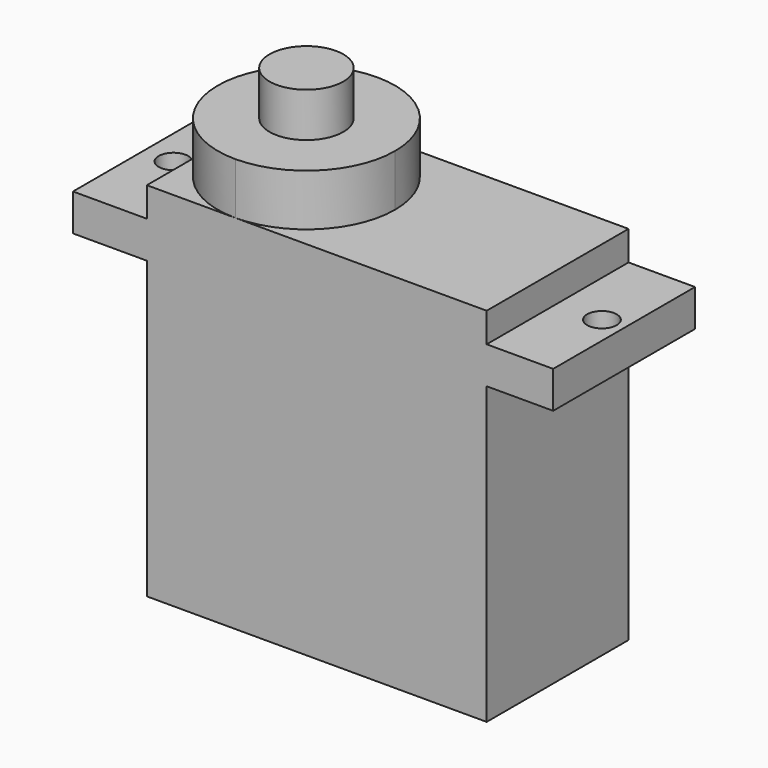
from build123d import *

# Parameters (mm, degrees)
F0_W     = 4.5
F0_H     = 12
F0_R     = 1
F0_R_2   = 2.5
F1_DEPTH = 2.5
F2_DEPTH = 2
F3_DEPTH = 22.5
F4_R     = 2.5
F5_DEPTH = 3.5
F6_DEPTH = 6.5
F8_W     = 23
F8_H     = 12
F9_DEPTH = 20


with BuildPart() as f1:
    # F0 (on Top) → F1 (new body)
    with BuildSketch(Plane.XY):
        with Locations((30.25, 6)):
            Rectangle(F0_W, F0_H)
        with Locations((31, 6)):
            Circle(F0_R, mode=Mode.SUBTRACT)
        with BuildLine():
            ThreePointArc((17, 6), (15.2426406871, 1.7573593129), (11, 0))
            Line((11, 0), (28, 0))
            Line((28, 0), (28, 12))
            Line((28, 12), (11, 12))
            ThreePointArc((11, 12), (15.2426406871, 10.2426406871), (17, 6))
        make_face()
        with BuildLine():
            Line((5, 12), (5, 6))
            ThreePointArc((5, 6), (6.7573593129, 10.2426406871), (11, 12))
            Line((11, 12), (5, 12))
        make_face()
        with BuildLine():
            Line((5, 6), (5, 0))
            Line((5, 0), (11, 0))
            ThreePointArc((11, 0), (6.7573593129, 1.7573593129), (5, 6))
        make_face()
        Polygon((0, 12), (0, 0), (5, 0), (5, 6), (5, 12), align=None)
        with Locations((2, 6)):
            Circle(F0_R, mode=Mode.SUBTRACT)
        with BuildLine():
            ThreePointArc((5, 6), (6.7573593129, 1.7573593129), (11, 0))
            ThreePointArc((11, 0), (15.2426406871, 1.7573593129), (17, 6))
            ThreePointArc((17, 6), (15.2426406871, 10.2426406871), (11, 12))
            ThreePointArc((11, 12), (6.7573593129, 10.2426406871), (5, 6))
        make_face()
        with Locations((11, 6)):
            Circle(F0_R_2, mode=Mode.SUBTRACT)
        with Locations((11, 6)):
            Circle(F0_R_2)
    extrude(amount=-F1_DEPTH)

    # F0 (on Top) → F2 (join)
    with BuildSketch(Plane.XY):
        with BuildLine():
            ThreePointArc((17, 6), (15.2426406871, 1.7573593129), (11, 0))
            Line((11, 0), (28, 0))
            Line((28, 0), (28, 12))
            Line((28, 12), (11, 12))
            ThreePointArc((11, 12), (15.2426406871, 10.2426406871), (17, 6))
        make_face()
        with BuildLine():
            Line((5, 12), (5, 6))
            ThreePointArc((5, 6), (6.7573593129, 10.2426406871), (11, 12))
            Line((11, 12), (5, 12))
        make_face()
        with BuildLine():
            Line((5, 6), (5, 0))
            Line((5, 0), (11, 0))
            ThreePointArc((11, 0), (6.7573593129, 1.7573593129), (5, 6))
        make_face()
        with BuildLine():
            ThreePointArc((5, 6), (6.7573593129, 1.7573593129), (11, 0))
            ThreePointArc((11, 0), (15.2426406871, 1.7573593129), (17, 6))
            ThreePointArc((17, 6), (15.2426406871, 10.2426406871), (11, 12))
            ThreePointArc((11, 12), (6.7573593129, 10.2426406871), (5, 6))
        make_face()
        with Locations((11, 6)):
            Circle(F0_R_2, mode=Mode.SUBTRACT)
        with Locations((11, 6)):
            Circle(F0_R_2)
    extrude(amount=F2_DEPTH)

    # F4 (on face) → F5 (join)
    with BuildSketch(Plane.XY.offset(2)):
        with BuildLine():
            ThreePointArc((11, 0), (15.2426406871, 1.7573593129), (17, 6))
            ThreePointArc((17, 6), (15.2426406871, 10.2426406871), (11, 12))
            ThreePointArc((11, 12), (6.7573593129, 10.2426406871), (5, 6))
            ThreePointArc((5, 6), (6.7573593129, 1.7573593129), (11, 0))
        make_face()
        with Locations((11, 6)):
            Circle(F4_R, mode=Mode.SUBTRACT)
    extrude(amount=F5_DEPTH)

    # F6 (add): a face of the model
    f6_faces = [f1.faces().sort_by_distance(p)[0] for p in [
        (11, 6, 2),
    ]]
    extrude(f6_faces, amount=F6_DEPTH)

    # F8 (on face) → F9 (join)
    with BuildSketch(Plane(origin=(0, 0, -2.5), x_dir=(1, 0, 0), z_dir=(0, 0, -1))):
        with Locations((16.5, -6)):
            Rectangle(F8_W, F8_H)
    extrude(amount=F9_DEPTH)


with BuildPart() as f3:
    # F0 (on Top) → F3 (new body)
    with BuildSketch(Plane.XY):
        with BuildLine():
            ThreePointArc((17, 6), (15.2426406871, 1.7573593129), (11, 0))
            Line((11, 0), (28, 0))
            Line((28, 0), (28, 12))
            Line((28, 12), (11, 12))
            ThreePointArc((11, 12), (15.2426406871, 10.2426406871), (17, 6))
        make_face()
        with BuildLine():
            ThreePointArc((5, 6), (6.7573593129, 1.7573593129), (11, 0))
            ThreePointArc((11, 0), (15.2426406871, 1.7573593129), (17, 6))
            ThreePointArc((17, 6), (15.2426406871, 10.2426406871), (11, 12))
            ThreePointArc((11, 12), (6.7573593129, 10.2426406871), (5, 6))
        make_face()
        with Locations((11, 6)):
            Circle(F0_R_2, mode=Mode.SUBTRACT)
        with Locations((11, 6)):
            Circle(F0_R_2)
        with BuildLine():
            Line((5, 12), (5, 6))
            ThreePointArc((5, 6), (6.7573593129, 10.2426406871), (11, 12))
            Line((11, 12), (5, 12))
        make_face()
        with BuildLine():
            Line((5, 6), (5, 0))
            Line((5, 0), (11, 0))
            ThreePointArc((11, 0), (6.7573593129, 1.7573593129), (5, 6))
        make_face()
    extrude(amount=-F3_DEPTH)


solid = f1.part
